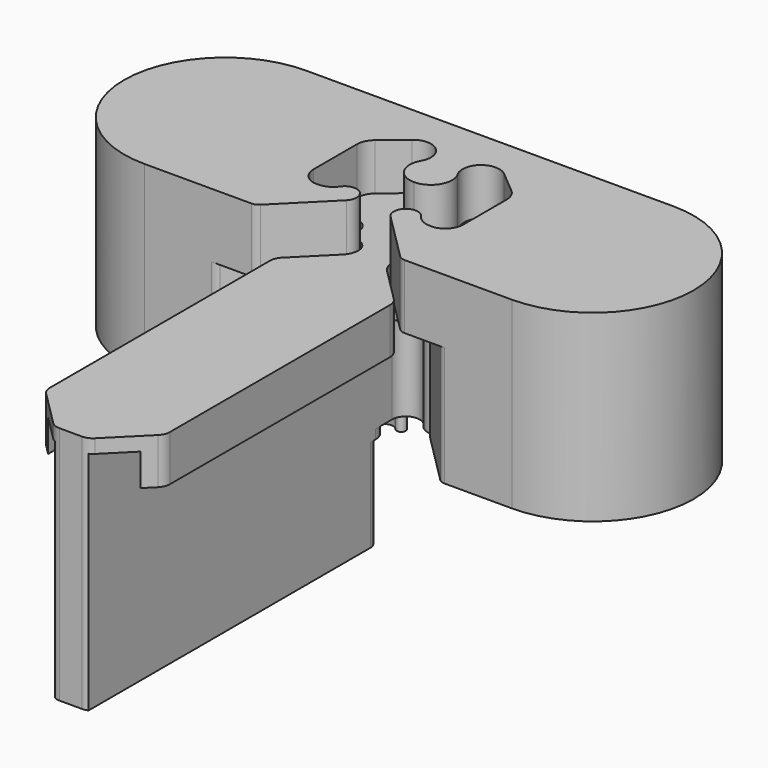
from build123d import *

# Parameters (mm, degrees)
SKETCH_R          = 1.5
PAD_DEPTH         = 15
PAD006_DEPTH      = 2
SKETCH005_W       = 1.83
SKETCH005_H       = 41
PAD005_DEPTH      = 15
PAD007_DEPTH      = 1
PAD008_DEPTH      = 11.1
PAD009_DEPTH      = 22
PAD009_DEPTH_BACK = 19.3
POCKET_DEPTH      = 133.3129393933
POCKET_DEPTH_BACK = 137.2129393933
PAD001_DEPTH      = 20
PAD002_DEPTH      = 7
SKETCH003_R       = 1.3
PAD003_DEPTH      = 2.5


with BuildPart() as body:
    # Sketch → Pad (new body)
    with BuildSketch(Plane.XY):
        with BuildLine():
            ThreePointArc((-1.83, -3.58), (-2.9049331603, -2.1414875107), (-4.5890909091, -2.7647147232))
            ThreePointArc((-6.1, -3.5863723909), (-5.2400628505, -3.3676718879), (-4.5890909091, -2.7647147232))
            ThreePointArc((-7.95, -1.7363723909), (-7.4081475452, -3.0445199361), (-6.1, -3.5863723909))
            Line((-7.95, -1.7363723909), (-7.95, 4.0956547944))
            ThreePointArc((-7.3070176974, 5.474534792), (-7.7813540167, 4.8563676655), (-7.95, 4.0956547944))
            Line((-7.3070176974, 5.474534792), (-4.9013306959, 7.4931458677))
            ThreePointArc((-2.1769261619, 5.2292243431), (-2.5939061683, 7.4986661464), (-4.9013306959, 7.4931458677))
            ThreePointArc((-2.1769261619, 5.2292243431), (-2.1590577641, 2.7396549793), (0, 1.5))
            Line((0, -4), (0, 1.5))
            Line((-1.83, -4), (0, -4))
            Line((-1.83, -3.58), (-1.83, -4))
        make_face()
        with Locations((-5.5604732033, -0.74149876)):
            Circle(SKETCH_R, mode=Mode.SUBTRACT)
    pad = extrude(amount=PAD_DEPTH)

    # Sketch006 → Pad006 (join)
    with BuildSketch(Plane.XY):
        with BuildLine():
            ThreePointArc((0, 0.225), (-0.1339392013, 0.1983578364), (-0.2474873734, 0.1224873734))
            Line((-0.2474873734, 0.1224873734), (-1.5164213562, -1.1464466094))
            ThreePointArc((-1.5164213562, -1.1464466094), (-1.4979929518, -1.8710677076), (-0.7752453104, -1.8158301397))
            ThreePointArc((0, -1.4474904192), (-0.4291501605, -1.5442572601), (-0.7752453104, -1.8158301397))
            Line((0, 0.225), (0, -1.4474904192))
        make_face()
    pad006 = extrude(amount=-PAD006_DEPTH)

    # Mirrored: Pad, Pad006 across Sketch V_Axis
    add(pad.mirror(Plane(origin=(0, 0, 0), x_dir=(0, 0, 1), z_dir=(1, 0, 0))))
    add(pad006.mirror(Plane(origin=(0, 0, 0), x_dir=(0, 0, 1), z_dir=(1, 0, 0))))

    # Sketch005 → Pad005 (join)
    with BuildSketch(Plane.XY):
        with Locations((-0.915, -24.5)):
            Rectangle(SKETCH005_W, SKETCH005_H)
    pad005 = extrude(amount=PAD005_DEPTH)

    # Sketch007 → Pad007 (join)
    with BuildSketch(Plane.XY):
        with BuildLine():
            ThreePointArc((0, -4), (-1.2940054096, -4.5359945904), (-1.83, -5.83))
            Line((-1.83, -5.83), (-1.83, -45))
            Line((-1.83, -45), (0, -45))
            Line((0, -4), (0, -45))
        make_face()
    pad007 = extrude(amount=-PAD007_DEPTH)

    # Sketch008 → Pad008 (join)
    with BuildSketch(Plane.XY):
        with BuildLine():
            ThreePointArc((0, -4.75), (-0.4687872046, -4.8432475727), (-0.866205807, -5.108794193))
            Line((-1.5371067812, -5.7796951673), (-0.866205807, -5.108794193))
            ThreePointArc((-1.5371067812, -5.7796951673), (-1.7538795325, -6.1041185161), (-1.83, -6.4868019485))
            Line((-1.83, -6.4868019485), (-1.83, -45))
            Line((-1.83, -45), (0, -45))
            Line((0, -4.75), (0, -45))
        make_face()
    pad008 = extrude(amount=-PAD008_DEPTH)

    # Mirrored002: Pad005, Pad007, Pad008 across Sketch004 V_Axis
    add(pad005.mirror(Plane(origin=(0, 0, 0), x_dir=(0, 0, 1), z_dir=(1, 0, 0))))
    add(pad007.mirror(Plane(origin=(0, 0, 0), x_dir=(0, 0, 1), z_dir=(1, 0, 0))))
    add(pad008.mirror(Plane(origin=(0, 0, 0), x_dir=(0, 0, 1), z_dir=(1, 0, 0))))

    # Sketch009 (on DatumPlane) → Pad009 (join, two sides)
    with BuildSketch(Plane.XZ.offset(23)) as pad009_sk:
        Polygon((-1.83, 15), (-6.53, 15), (-6.53, 10), (-5.03, 10), (-5.03, 13.5), (-1.83, 13.5), align=None)
    pad009 = extrude(amount=PAD009_DEPTH) + extrude(pad009_sk.sketch, amount=-PAD009_DEPTH_BACK)

    # Sketch010 → Pocket (cut, two sides)
    with BuildSketch(Plane.XY) as pocket_sk:
        with BuildLine():
            Line((-2.4157864376, -4.9987635624), (-6.0906601718, -8.6736372965))
            ThreePointArc((-6.0906601718, -8.6736372965), (-6.4158192988, -9.1602723198), (-6.53, -9.7342974683))
            Line((-6.53, -9.7342974683), (-6.53, -11.58455))
            Line((-6.53, -11.58455), (-7.83, -11.58455))
            Line((-7.83, -11.58455), (-7.83, -3.58455))
            Line((-1.83, -3.58455), (-7.83, -3.58455))
            ThreePointArc((-2.4157864376, -4.9987635624), (-1.982240935, -4.3499168647), (-1.83, -3.58455))
        make_face()
        with BuildLine():
            Line((0, -45), (-1.2086796564, -45))
            ThreePointArc((-2.2693398282, -44.5606601718), (-1.782704805, -44.8858192988), (-1.2086796564, -45))
            Line((-2.2693398282, -44.5606601718), (-6.0906601718, -40.7393398282))
            ThreePointArc((-6.53, -39.6786796564), (-6.4158192988, -40.252704805), (-6.0906601718, -40.7393398282))
            Line((-6.53, -39.6786796564), (-6.53, -38.47))
            Line((-6.53, -38.47), (-7.53, -38.47))
            Line((-7.53, -38.47), (-7.53, -46))
            Line((-7.53, -46), (0, -46))
            Line((0, -46), (0, -45))
        make_face()
    pocket = extrude(amount=-POCKET_DEPTH, mode=Mode.SUBTRACT) + extrude(pocket_sk.sketch, amount=POCKET_DEPTH_BACK, mode=Mode.SUBTRACT)

    # Mirrored003: Pad009, Pocket across Sketch009 V_Axis
    add(pad009.mirror(Plane(origin=(0, -23, 0), x_dir=(0, -1, 0), z_dir=(1, 0, 0))))
    add(pocket.mirror(Plane(origin=(0, -23, 0), x_dir=(0, -1, 0), z_dir=(1, 0, 0))), mode=Mode.SUBTRACT)


with BuildPart() as body001:
    # Sketch001 → Pad001 (new body)
    with BuildSketch(Plane.XY):
        with BuildLine():
            Line((0, 12), (-20, 12))
            ThreePointArc((-20, 12), (-31, 1), (-20, -10))
            Line((-20, -10), (-12.6857111975, -10))
            ThreePointArc((-12.6857111975, -10), (-12.3030277651, -9.9238795325), (-11.9786044163, -9.7071067812))
            Line((-6.4232233047, -4.1517256696), (-11.9786044163, -9.7071067812))
            ThreePointArc((-6.4232233047, -4.1517256696), (-6.3605839344, -3.902977122), (-6.55, -3.73))
            ThreePointArc((-8.15, -1.7704082058), (-7.6991933385, -3.0353192698), (-6.55, -3.73))
            Line((-8.15, 4.1152625783), (-8.15, -1.7704082058))
            ThreePointArc((-7.4355752194, 5.6473514645), (-7.9626155741, 4.9604991017), (-8.15, 4.1152625783))
            Line((-5.0083695026, 7.6840188862), (-7.4355752194, 5.6473514645))
            ThreePointArc((-1.9912620585, 5.1510323256), (-2.4368220278, 7.6836856457), (-5.0083695026, 7.6840188862))
            ThreePointArc((-1.9912620585, 5.1510323256), (-1.9921564131, 2.8505162787), (0, 1.7))
            Line((0, 12), (0, 1.7))
        make_face()
    pad001 = extrude(amount=PAD001_DEPTH)

    # Sketch002 (on DatumPlane) → Pad002 (join)
    with BuildSketch(Plane.XY.offset(13)):
        with BuildLine():
            ThreePointArc((-2.4107611845, -4.5037888155), (-2.4994132109, -2.584487209), (-4.4023704347, -2.8496883459))
            ThreePointArc((-6.0727936119, -3.73), (-5.1286985162, -3.4964545627), (-4.4023704347, -2.8496883459))
            Line((-6.0727936119, -3.73), (-15, -3.73))
            Line((-15, -10), (-15, -3.73))
            Line((-8.3211859313, -10), (-15, -10))
            ThreePointArc((-8.3211859313, -10), (-7.9385024989, -9.9238795325), (-7.6140791501, -9.7071067812))
            Line((-7.6140791501, -9.7071067812), (-2.4107611845, -4.5037888155))
        make_face()
    pad002 = extrude(amount=PAD002_DEPTH)

    # Sketch003 (on DatumPlane) → Pad003 (join)
    with BuildSketch(Plane.XY.offset(13)):
        with Locations((-3.33, -3.58455)):
            Circle(SKETCH003_R)
    pad003 = extrude(amount=-PAD003_DEPTH)

    # Mirrored001: Pad001, Pad002, Pad003 across Sketch001 V_Axis
    add(pad001.mirror(Plane(origin=(0, 0, 0), x_dir=(0, 0, 1), z_dir=(1, 0, 0))))
    add(pad002.mirror(Plane(origin=(0, 0, 0), x_dir=(0, 0, 1), z_dir=(1, 0, 0))))
    add(pad003.mirror(Plane(origin=(0, 0, 0), x_dir=(0, 0, 1), z_dir=(1, 0, 0))))


solid = Compound([body.part, body001.part])
